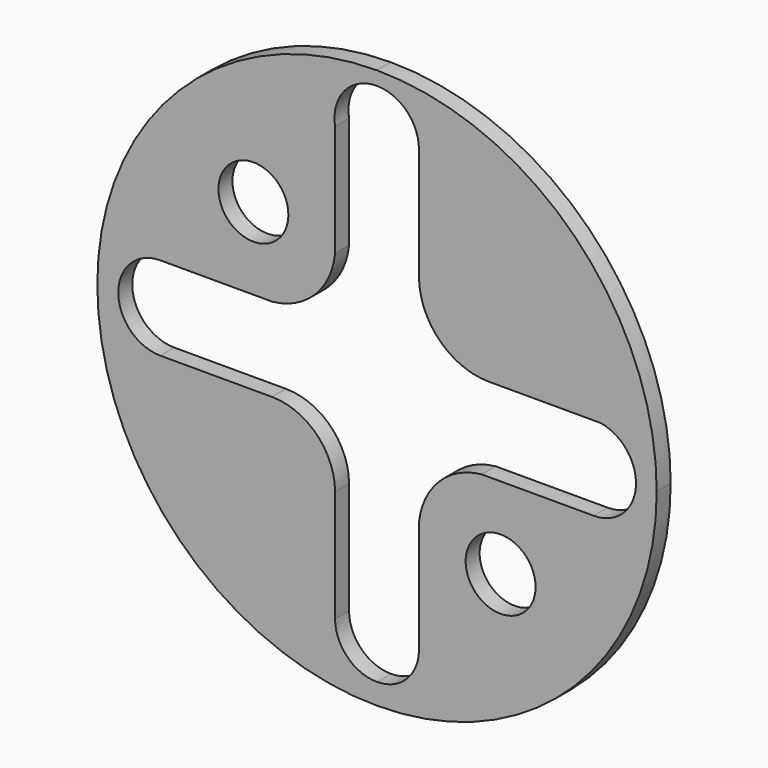
from build123d import *

# Parameters (mm, degrees)
F1_DEPTH = 3.175


with BuildPart() as f1:
    # F0 (on Front) → F1 (new body)
    with BuildSketch(Plane.XZ):
        with BuildLine():
            ThreePointArc((35.921024, -35.921024), (46.93308, -19.440318), (50.8, 0))
            ThreePointArc((50.8, 0), (35.921024, 35.921024), (0, 50.8))
            Line((0, 50.8), (0, 48.312734))
            ThreePointArc((0, 48.312734), (5.391331, 46.04683), (7.62, 40.64))
            Line((7.62, 40.64), (7.62, 20.32))
            ThreePointArc((7.62, 20.32), (11.339744, 11.339744), (20.32, 7.62))
            Line((20.32, 7.62), (40.64, 7.62))
            ThreePointArc((40.64, 7.62), (47.016413, -0.584284), (39.37, -7.62))
            Line((39.37, -7.62), (19.05, -7.62))
            ThreePointArc((19.05, -7.62), (14.846976, -8.774336), (11.281776, -11.281776))
            Line((11.281776, -11.281776), (17.960512, -17.960512))
            ThreePointArc((17.960512, -17.960512), (24.88068, -16.584005), (28.80064, -22.45064))
            ThreePointArc((28.80064, -22.45064), (28.317275, -24.88068), (26.940768, -26.940768))
            Line((26.940768, -26.940768), (35.921024, -35.921024))
        make_face()
        with BuildLine():
            Line((0, 48.312734), (0, 50.8))
            ThreePointArc((0, 50.8), (-19.440318, 46.93308), (-35.921024, 35.921024))
            Line((-35.921024, 35.921024), (-26.940768, 26.940768))
            ThreePointArc((-26.940768, 26.940768), (-20.020601, 28.317275), (-16.10064, 22.45064))
            ThreePointArc((-16.10064, 22.45064), (-16.584005, 20.020601), (-17.960512, 17.960512))
            Line((-17.960512, 17.960512), (-11.281776, 11.281776))
            ThreePointArc((-11.281776, 11.281776), (-8.774336, 14.846976), (-7.62, 19.05))
            Line((-7.62, 19.05), (-7.62, 39.37))
            ThreePointArc((-7.62, 39.37), (-5.893191, 45.61643), (0, 48.312734))
        make_face()
        with BuildLine():
            ThreePointArc((0, -50.8), (19.440318, -46.93308), (35.921024, -35.921024))
            Line((35.921024, -35.921024), (26.940768, -26.940768))
            ThreePointArc((26.940768, -26.940768), (17.960512, -26.940768), (17.960512, -17.960512))
            Line((17.960512, -17.960512), (11.281776, -11.281776))
            ThreePointArc((11.281776, -11.281776), (8.774336, -14.846976), (7.62, -19.05))
            Line((7.62, -19.05), (7.62, -39.37))
            ThreePointArc((7.62, -39.37), (5.388154, -44.758154), (0, -46.99))
            Line((0, -46.99), (0, -50.8))
        make_face()
        with BuildLine():
            Line((-26.940768, 26.940768), (-35.921024, 35.921024))
            ThreePointArc((-35.921024, 35.921024), (-46.93308, -19.440318), (0, -50.8))
            Line((0, -50.8), (0, -46.99))
            ThreePointArc((0, -46.99), (-5.388154, -44.758154), (-7.62, -39.37))
            Line((-7.62, -39.37), (-7.62, -19.05))
            ThreePointArc((-7.62, -19.05), (-10.967769, -10.967769), (-19.05, -7.62))
            Line((-19.05, -7.62), (-39.37, -7.62))
            ThreePointArc((-39.37, -7.62), (-46.99, 0), (-39.37, 7.62))
            Line((-39.37, 7.62), (-19.05, 7.62))
            ThreePointArc((-19.05, 7.62), (-14.846976, 8.774336), (-11.281776, 11.281776))
            Line((-11.281776, 11.281776), (-17.960512, 17.960512))
            ThreePointArc((-17.960512, 17.960512), (-26.940768, 17.960512), (-26.940768, 26.940768))
        make_face()
    extrude(amount=F1_DEPTH)


solid = f1.part
